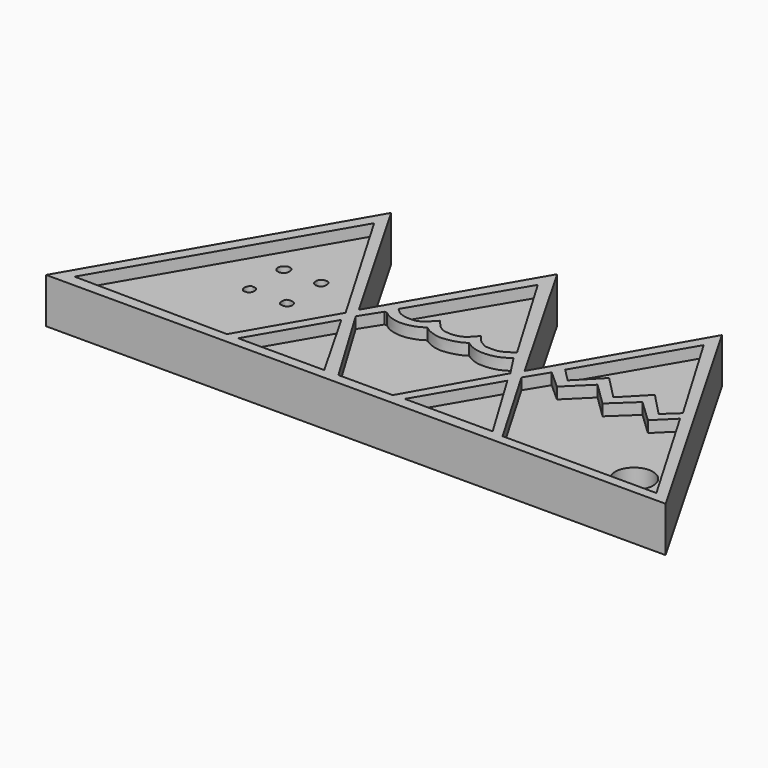
from build123d import *

# Parameters (mm, degrees)
F1_DEPTH = 3
F2_DEPTH = 4
F3_R     = 1.6718054665
F4_DEPTH = 25


with BuildPart() as f1:
    # F0 (on Top) → F1 (new body)
    with BuildSketch(Plane.XY):
        with BuildLine():
            add(Edge.make_bspline(
                [(-27.0166359842, 0), (-22.7459954719, 7.379512613), (-18.4753549596, 14.759025226), (-14.2047144473, 22.1385378391)],
                knots=[0, 0, 0, 0, 25.5785103382, 25.5785103382, 25.5785103382, 25.5785103382], degree=3))
            add(Edge.make_bspline(
                [(27.7878213674, 0), (9.5196689169, 0), (-8.7484835337, 0), (-27.0166359842, 0)],
                knots=[0, 0, 0, 0, 54.8044573516, 54.8044573516, 54.8044573516, 54.8044573516], degree=3))
            add(Edge.make_bspline(
                [(15.0614399463, 22.1385378391), (19.3035670867, 14.759025226), (23.545694227, 7.379512613), (27.7878213674, 0)],
                knots=[0, 0, 0, 0, 25.535771806, 25.535771806, 25.535771806, 25.535771806], degree=3))
            add(Edge.make_bspline(
                [(7.7691879123, 9.4376308843), (10.1999385903, 13.6712665359), (12.6306892683, 17.9049021875), (15.0614399463, 22.1385378391)],
                knots=[0, 0, 0, 0, 14.6454763391, 14.6454763391, 14.6454763391, 14.6454763391], degree=3))
            add(Edge.make_bspline(
                [(0.4854918807, 22.1385378391), (2.9133905579, 17.9049021875), (5.3412892351, 13.6712665359), (7.7691879123, 9.4376308843)],
                knots=[0, 0, 0, 0, 14.6412180284, 14.6412180284, 14.6412180284, 14.6412180284], degree=3))
            add(Edge.make_bspline(
                [(-6.8902163766, 9.4376308843), (-4.4316469575, 13.6712665359), (-1.9730775384, 17.9049021875), (0.4854918807, 22.1385378391)],
                knots=[0, 0, 0, 0, 14.6872090531, 14.6872090531, 14.6872090531, 14.6872090531], degree=3))
            add(Edge.make_bspline(
                [(-14.2047144473, 22.1385378391), (-11.7665484237, 17.9049021875), (-9.3283824002, 13.6712665359), (-6.8902163766, 9.4376308843)],
                knots=[0, 0, 0, 0, 14.656565747, 14.656565747, 14.656565747, 14.656565747], degree=3))
        make_face()
        with BuildLine():
            add(Edge.make_bspline(
                [(-6.8902163766, 7.4933706783), (-8.1716009105, 5.2916157098), (-9.4529854444, 3.0898607414), (-10.7343699783, 0.8881057729)],
                knots=[0, 0, 0, 0, 7.6424499595, 7.6424499595, 7.6424499595, 7.6424499595], degree=3))
            add(Edge.make_bspline(
                [(-3.1215331655, 0.8881057729), (-4.3777609025, 3.0898607414), (-5.6339886396, 5.2916157098), (-6.8902163766, 7.4933706783)],
                knots=[0.2174304247, 0.2174304247, 0.2174304247, 0.2174304247, 7.822198509, 7.822198509, 7.822198509, 7.822198509], degree=3))
            add(Edge.make_bspline(
                [(-10.7343699783, 0.8881057729), (-8.1967577074, 0.8881057729), (-5.6591454364, 0.8881057729), (-3.1215331655, 0.8881057729)],
                knots=[0, 0, 0, 0, 7.6128368128, 7.6128368128, 7.6128368128, 7.6128368128], degree=3))
        make_face(mode=Mode.SUBTRACT)
        with BuildLine():
            add(Edge.make_bspline(
                [(-14.1534451395, 20.2021654695), (-11.877084927, 16.3033613935), (-9.6007247145, 12.4045573175), (-7.324364502, 8.5057532415)],
                knots=[0, 0, 0, 0, 13.5440910128, 13.5440910128, 13.5440910128, 13.5440910128], degree=3))
            add(Edge.make_bspline(
                [(-7.324364502, 8.5057532415), (-8.7912762538, 5.9665374186), (-10.2581880055, 3.4273215958), (-11.7250997573, 0.8881057729)],
                knots=[0, 0, 0, 0, 8.7974441597, 8.7974441597, 8.7974441597, 8.7974441597], degree=3))
            add(Edge.make_bspline(
                [(-25.3200568259, 1.0284892051), (-20.7884044697, 0.9816947277), (-16.2567521135, 0.9349002503), (-11.7250997573, 0.8881057729)],
                knots=[0, 0, 0, 0, 13.5956818587, 13.5956818587, 13.5956818587, 13.5956818587], degree=3))
            add(Edge.make_bspline(
                [(-25.3200568259, 1.0284892051), (-21.5978529304, 7.4197146265), (-17.875649035, 13.810940048), (-14.1534451395, 20.2021654695)],
                knots=[0, 0, 0, 0, 22.1883545593, 22.1883545593, 22.1883545593, 22.1883545593], degree=3))
        make_face(mode=Mode.SUBTRACT)
        with BuildLine():
            add(Edge.make_bspline(
                [(-6.4517022111, 8.5330428556), (-4.931450317, 5.9938564276), (-3.4111984229, 3.4546699996), (-1.8909465289, 0.9154835716)],
                knots=[0, 0, 0, 0, 8.8784965978, 8.8784965978, 8.8784965978, 8.8784965978], degree=3))
            add(Edge.make_bspline(
                [(-6.4517022111, 8.5330428556), (-6.0765963669, 9.1245559355), (-5.7014905227, 9.7160690154), (-5.3263846785, 10.3075820953)],
                knots=[0, 0, 0, 0, 2.1012684413, 2.1012684413, 2.1012684413, 2.1012684413], degree=3))
            add(Edge.make_bspline(
                [(-5.3263846785, 10.3075820953), (-5.2542489332, 10.3075820953), (-5.182113188, 10.3075820953), (-5.1099774428, 10.3075820953)],
                knots=[0, 0, 0, 0, 0.2164072357, 0.2164072357, 0.2164072357, 0.2164072357], degree=3))
            add(Edge.make_bspline(
                [(-5.1099774428, 10.3075820953), (-4.9496532954, 10.1819225004), (-4.6092257121, 9.9151006094), (-3.8216528744, 9.7183805248), (-3.0359312813, 9.6696429625), (-2.1105616041, 9.949298696), (-1.7183953125, 10.1952396316), (-1.5392591013, 10.3075820953)],
                knots=[0, 0, 0, 0, 0.18110854, 0.3845605518, 0.5897184474, 0.8125889847, 1, 1, 1, 1], degree=3))
            add(Edge.make_bspline(
                [(-1.5392591013, 10.3075820953), (-1.3849584087, 10.1949424603), (-1.0453842045, 9.9470530063), (-0.160184237, 9.6822064615), (0.3988256138, 9.7061631275), (1.4604727263, 9.8889610674), (1.9369888648, 10.1735941157), (2.1613037679, 10.3075820953)],
                knots=[0, 0, 0, 0, 0.1773237248, 0.390241688, 0.5634387887, 0.7944934539, 1, 1, 1, 1], degree=3))
            add(Edge.make_bspline(
                [(2.1613037679, 10.3075820953), (2.3116370062, 10.2044057224), (2.6288923425, 9.9866677475), (3.3073928595, 9.7480906921), (3.9293685458, 9.7171948959), (4.8258767915, 9.8075913359), (5.5481639634, 10.1517143332), (5.8460675968, 10.3616419173), (5.97854238, 10.4549946263)],
                knots=[0, 0, 0, 0, 0.1523056938, 0.3214179023, 0.4820915145, 0.6738404511, 0.8549600921, 1, 1, 1, 1], degree=3))
            add(Edge.make_bspline(
                [(5.97854238, 10.4549946263), (6.3917043929, 9.8173987741), (6.8048664058, 9.1798029219), (7.2180284187, 8.5422070697)],
                knots=[0, 0, 0, 0, 2.2792722253, 2.2792722253, 2.2792722253, 2.2792722253], degree=3))
            add(Edge.make_bspline(
                [(7.2180284187, 8.5422070697), (5.7831165226, 5.9999659037), (4.3482046264, 3.4577247376), (2.9132927302, 0.9154835716)],
                knots=[0, 0, 0, 0, 8.7577200609, 8.7577200609, 8.7577200609, 8.7577200609], degree=3))
            add(Edge.make_bspline(
                [(2.9132927302, 0.9154835716), (1.3118796439, 0.9154835716), (-0.2895334425, 0.9154835716), (-1.8909465289, 0.9154835716)],
                knots=[0, 0, 0, 0, 4.8042392591, 4.8042392591, 4.8042392591, 4.8042392591], degree=3))
        make_face(mode=Mode.SUBTRACT)
        with BuildLine():
            add(Edge.make_bspline(
                [(7.7528352849, 7.5536821969), (6.4760330133, 5.3679696672), (5.1992307417, 3.1822571376), (3.9224284701, 0.9965446079)],
                knots=[0, 0, 0, 0, 7.5939495473, 7.5939495473, 7.5939495473, 7.5939495473], degree=3))
            add(Edge.make_bspline(
                [(11.6914464161, 0.9965446079), (10.378576039, 3.1822571376), (9.065705662, 5.3679696672), (7.7528352849, 7.5536821969)],
                knots=[0, 0, 0, 0, 7.6490987053, 7.6490987053, 7.6490987053, 7.6490987053], degree=3))
            add(Edge.make_bspline(
                [(3.9224284701, 0.9965446079), (6.5121011188, 0.9965446079), (9.1017737674, 0.9965446079), (11.6914464161, 0.9965446079)],
                knots=[0, 0, 0, 0, 7.769017946, 7.769017946, 7.769017946, 7.769017946], degree=3))
        make_face(mode=Mode.SUBTRACT)
        with BuildLine():
            add(Edge.make_bspline(
                [(9.3672713265, 10.4356342927), (8.9790557201, 9.8047843203), (8.5908401137, 9.1739343479), (8.2026245072, 8.5430843756)],
                knots=[0, 0, 0, 0, 2.2221942764, 2.2221942764, 2.2221942764, 2.2221942764], degree=3))
            add(Edge.make_bspline(
                [(10.9761599451, 8.9945429936), (10.4398637389, 9.47490676), (9.9035675327, 9.9552705263), (9.3672713265, 10.4356342927)],
                knots=[0, 0, 0, 0, 2.1599228503, 2.1599228503, 2.1599228503, 2.1599228503], degree=3))
            add(Edge.make_bspline(
                [(12.9869952798, 10.9763387591), (12.3167168349, 10.3157401706), (11.64643839, 9.6551415821), (10.9761599451, 8.9945429936)],
                knots=[0, 0, 0, 0, 2.8232911998, 2.8232911998, 2.8232911998, 2.8232911998], degree=3))
            add(Edge.make_bspline(
                [(15.0160277262, 8.9945429936), (14.3396835774, 9.6551415821), (13.6633394286, 10.3157401706), (12.9869952798, 10.9763387591)],
                knots=[0, 0, 0, 0, 2.8362805088, 2.8362805088, 2.8362805088, 2.8362805088], degree=3))
            add(Edge.make_bspline(
                [(17.032912001, 10.8881061897), (16.3606172428, 10.2569184576), (15.6883224845, 9.6257307256), (15.0160277262, 8.9945429936)],
                knots=[0, 0, 0, 0, 2.7664785839, 2.7664785839, 2.7664785839, 2.7664785839], degree=3))
            add(Edge.make_bspline(
                [(19.0255492926, 8.9945429936), (18.361336862, 9.6257307256), (17.6971244315, 10.2569184576), (17.032912001, 10.8881061897)],
                knots=[0, 0, 0, 0, 2.7488515699, 2.7488515699, 2.7488515699, 2.7488515699], degree=3))
            add(Edge.make_bspline(
                [(20.6134654582, 10.5685461313), (20.0841600696, 10.0438784187), (19.5548546811, 9.5192107062), (19.0255492926, 8.9945429936)],
                knots=[0, 0, 0, 0, 2.2358362253, 2.2358362253, 2.2358362253, 2.2358362253], degree=3))
            add(Edge.make_bspline(
                [(26.2882523239, 0.8584216121), (24.396656702, 4.0951297851), (22.5050610801, 7.3318379582), (20.6134654582, 10.5685461313)],
                knots=[0, 0, 0, 0, 11.2467650526, 11.2467650526, 11.2467650526, 11.2467650526], degree=3))
            add(Edge.make_bspline(
                [(12.6804020256, 0.8584216121), (17.216352125, 0.8584216121), (21.7523022244, 0.8584216121), (26.2882523239, 0.8584216121)],
                knots=[0, 0, 0, 0, 13.6078502983, 13.6078502983, 13.6078502983, 13.6078502983], degree=3))
            add(Edge.make_bspline(
                [(8.2026245072, 8.5430843756), (9.6952170134, 5.9815301211), (11.1878095195, 3.4199758666), (12.6804020256, 0.8584216121)],
                knots=[0, 0, 0, 0, 8.8940729305, 8.8940729305, 8.8940729305, 8.8940729305], degree=3))
        make_face(mode=Mode.SUBTRACT)
        with BuildLine():
            add(Edge.make_bspline(
                [(0.4351635871, 20.0606193393), (-1.3178719867, 17.1186734612), (-3.0709075606, 14.176727583), (-4.8239431344, 11.2347817048)],
                knots=[0, 0, 0, 0, 10.2739288229, 10.2739288229, 10.2739288229, 10.2739288229], degree=3))
            add(Edge.make_bspline(
                [(0.4351635871, 20.0606193393), (2.1743785862, 17.1186734612), (3.9135935852, 14.176727583), (5.6528085843, 11.2347817048)],
                knots=[0, 0, 0, 0, 10.2527669079, 10.2527669079, 10.2527669079, 10.2527669079], degree=3))
            add(Edge.make_bspline(
                [(2.1495183464, 11.6464523599), (2.2509623436, 11.5044818194), (2.4468562003, 11.2303290113), (2.7659519138, 10.9123425614), (3.1040862412, 10.7498585853), (3.3442695732, 10.5818540483), (3.6951138147, 10.6069182555), (4.2844186804, 10.5429416294), (4.8222213659, 10.712998681), (5.3452936057, 11.0666132578), (5.5609650638, 11.1845559166), (5.6528085843, 11.2347817048)],
                knots=[0, 0, 0, 0, 0.1198046878, 0.2313493454, 0.332804345, 0.4200037318, 0.5166877829, 0.6441722045, 0.770650518, 0.9023317038, 1, 1, 1, 1], degree=3))
            add(Edge.make_bspline(
                [(-1.4937368687, 11.6464523599), (-1.2955516385, 11.4067172885), (-0.9399786522, 10.9765978737), (-0.455391628, 10.6509638812), (0.0044988166, 10.5709580444), (0.5658319663, 10.5504462466), (1.2310150645, 10.7022597986), (1.7307889645, 11.1398648749), (2.0097078439, 11.4773067161), (2.1495183464, 11.6464523599)],
                knots=[0, 0, 0, 0, 0.1698416943, 0.3047205807, 0.4254575146, 0.5604280408, 0.7078327039, 0.8535486139, 1, 1, 1, 1], degree=3))
            add(Edge.make_bspline(
                [(-4.8239431344, 11.2347817048), (-4.7113299166, 11.1232943446), (-4.5017645933, 10.9158241635), (-4.2287552317, 10.7346725899), (-3.727079831, 10.568985522), (-3.3612944868, 10.5862218652), (-2.8006765528, 10.5258546667), (-2.1365564626, 10.9371017003), (-1.7172625779, 11.3997920049), (-1.4937368687, 11.6464523599)],
                knots=[0, 0, 0, 0, 0.1302655037, 0.242414993, 0.3804513589, 0.4992578986, 0.6400379596, 0.8081041168, 1, 1, 1, 1], degree=3))
        make_face(mode=Mode.SUBTRACT)
        with BuildLine():
            add(Edge.make_bspline(
                [(15.0142246857, 20.1831534505), (13.2890865207, 17.2330507388), (11.5639483556, 14.2829480271), (9.8388101906, 11.3328453153)],
                knots=[0, 0, 0, 0, 10.2524567438, 10.2524567438, 10.2524567438, 10.2524567438], degree=3))
            add(Edge.make_bspline(
                [(20.2538874, 11.3328453153), (18.5073331619, 14.2829480271), (16.7607789238, 17.2330507388), (15.0142246857, 20.1831534505)],
                knots=[0, 0, 0, 0, 10.2850386216, 10.2850386216, 10.2850386216, 10.2850386216], degree=3))
            add(Edge.make_bspline(
                [(19.0255492926, 10.1863965392), (19.4349953284, 10.5685461313), (19.8444413642, 10.9506957233), (20.2538874, 11.3328453153)],
                knots=[0, 0, 0, 0, 1.6802259677, 1.6802259677, 1.6802259677, 1.6802259677], degree=3))
            add(Edge.make_bspline(
                [(17.032912001, 12.2609231621), (17.6971244315, 11.5694142878), (18.361336862, 10.8779054135), (19.0255492926, 10.1863965392)],
                knots=[0, 0, 0, 0, 2.8765020571, 2.8765020571, 2.8765020571, 2.8765020571], degree=3))
            add(Edge.make_bspline(
                [(15.0160277262, 10.1863965392), (15.6883224845, 10.8779054135), (16.3606172428, 11.5694142878), (17.032912001, 12.2609231621)],
                knots=[0, 0, 0, 0, 2.8933514973, 2.8933514973, 2.8933514973, 2.8933514973], degree=3))
            add(Edge.make_bspline(
                [(12.9869952798, 12.2609231621), (13.6633394286, 11.5694142878), (14.3396835774, 10.8779054135), (15.0160277262, 10.1863965392)],
                knots=[0, 0, 0, 0, 2.9018327619, 2.9018327619, 2.9018327619, 2.9018327619], degree=3))
            add(Edge.make_bspline(
                [(10.9761599451, 10.1863965392), (11.64643839, 10.8779054135), (12.3167168349, 11.5694142878), (12.9869952798, 12.2609231621)],
                knots=[0, 0, 0, 0, 2.889138185, 2.889138185, 2.889138185, 2.889138185], degree=3))
            add(Edge.make_bspline(
                [(9.8388101906, 11.3328453153), (10.2179267754, 10.9506957233), (10.5970433603, 10.5685461313), (10.9761599451, 10.1863965392)],
                knots=[0, 0, 0, 0, 1.6149022449, 1.6149022449, 1.6149022449, 1.6149022449], degree=3))
        make_face(mode=Mode.SUBTRACT)
        with BuildLine():
            add(Edge.make_bspline(
                [(-7.324364502, 8.5057532415), (-8.7912762538, 5.9665374186), (-10.2581880055, 3.4273215958), (-11.7250997573, 0.8881057729)],
                knots=[0, 0, 0, 0, 8.7974441597, 8.7974441597, 8.7974441597, 8.7974441597], degree=3))
            add(Edge.make_bspline(
                [(-14.1534451395, 20.2021654695), (-11.877084927, 16.3033613935), (-9.6007247145, 12.4045573175), (-7.324364502, 8.5057532415)],
                knots=[0, 0, 0, 0, 13.5440910128, 13.5440910128, 13.5440910128, 13.5440910128], degree=3))
            add(Edge.make_bspline(
                [(-25.3200568259, 1.0284892051), (-21.5978529304, 7.4197146265), (-17.875649035, 13.810940048), (-14.1534451395, 20.2021654695)],
                knots=[0, 0, 0, 0, 22.1883545593, 22.1883545593, 22.1883545593, 22.1883545593], degree=3))
            add(Edge.make_bspline(
                [(-25.3200568259, 1.0284892051), (-20.7884044697, 0.9816947277), (-16.2567521135, 0.9349002503), (-11.7250997573, 0.8881057729)],
                knots=[0, 0, 0, 0, 13.5956818587, 13.5956818587, 13.5956818587, 13.5956818587], degree=3))
        make_face()
        with BuildLine():
            add(Edge.make_bspline(
                [(-15.9350205213, 9.0574743226), (-16.002546836, 9.0641577326), (-16.1029566258, 9.0686357925), (-16.2906122418, 8.8660017788), (-16.3764428175, 8.5658730013), (-16.2073296897, 8.1535837902), (-15.9449663874, 8.1269075183), (-15.6611170078, 8.1299910379), (-15.4890464402, 8.3822159473), (-15.4547919102, 8.6795485345), (-15.5494307015, 9.0090431794), (-15.8354347184, 9.0476178281), (-15.9350205213, 9.0574743226)],
                knots=[0, 0, 0, 0, 0.0758419945, 0.1690005289, 0.2747338931, 0.3932102788, 0.4856245013, 0.5824261429, 0.6809632375, 0.7845067208, 0.8881504796, 1, 1, 1, 1], degree=3))
        make_face(mode=Mode.SUBTRACT)
        with BuildLine():
            add(Edge.make_bspline(
                [(-12.6373749226, 9.0498235077), (-12.7418662768, 9.0487150817), (-12.9721803752, 9.0382400882), (-13.0727270325, 8.6095655544), (-12.9596937657, 8.2019860683), (-12.6785824203, 8.1126930575), (-12.226193778, 8.123555697), (-12.0520314143, 8.5764929763), (-12.1429293767, 8.8489787302), (-12.336258445, 9.045789274), (-12.5325428593, 9.0509355478), (-12.6373749226, 9.0498235077)],
                knots=[0, 0, 0, 0, 0.1047846609, 0.2252030483, 0.3467599439, 0.4471165766, 0.5704730123, 0.695902691, 0.7979830101, 0.8948736736, 1, 1, 1, 1], degree=3))
        make_face(mode=Mode.SUBTRACT)
        with BuildLine():
            add(Edge.make_bspline(
                [(-15.9535165876, 12.9017615691), (-16.0327183196, 12.886068742), (-16.1583342946, 12.8091096624), (-16.4397774379, 12.5518836325), (-16.3725320449, 12.0378722761), (-16.0096529342, 11.8422419462), (-15.5155040252, 11.8853485954), (-15.3204765145, 12.4632736627), (-15.5694809519, 12.9021564524), (-15.8557442259, 12.9211339329), (-15.9535165876, 12.9017615691)],
                knots=[0, 0, 0, 0, 0.0950313119, 0.2137995194, 0.3484296766, 0.4716307202, 0.6028163172, 0.7482222738, 0.8826864569, 1, 1, 1, 1], degree=3))
        make_face(mode=Mode.SUBTRACT)
        with BuildLine():
            add(Edge.make_bspline(
                [(-12.6415519044, 12.9017615691), (-12.7330015708, 12.8955511973), (-12.878253777, 12.8643851125), (-13.0749331653, 12.6344740317), (-13.0916396681, 12.3278210332), (-12.9697434892, 11.9893705802), (-12.6418032853, 11.8949128738), (-12.3312539937, 11.9474618159), (-12.1351327548, 12.2148004171), (-12.130756484, 12.5345978891), (-12.2470053751, 12.8983463643), (-12.5299858146, 12.9093380527), (-12.6415519044, 12.9017615691)],
                knots=[0, 0, 0, 0, 0.0881165292, 0.1825749211, 0.2821253182, 0.3862470007, 0.4873475649, 0.586326358, 0.6853743319, 0.7877697971, 0.8925002465, 1, 1, 1, 1], degree=3))
        make_face(mode=Mode.SUBTRACT)
        with BuildLine():
            add(Edge.make_bspline(
                [(-3.1215331655, 0.8881057729), (-4.3777609025, 3.0898607414), (-5.6339886396, 5.2916157098), (-6.8902163766, 7.4933706783)],
                knots=[0.2174304247, 0.2174304247, 0.2174304247, 0.2174304247, 7.822198509, 7.822198509, 7.822198509, 7.822198509], degree=3))
            add(Edge.make_bspline(
                [(-6.8902163766, 7.4933706783), (-8.1716009105, 5.2916157098), (-9.4529854444, 3.0898607414), (-10.7343699783, 0.8881057729)],
                knots=[0, 0, 0, 0, 7.6424499595, 7.6424499595, 7.6424499595, 7.6424499595], degree=3))
            add(Edge.make_bspline(
                [(-10.7343699783, 0.8881057729), (-8.1967577074, 0.8881057729), (-5.6591454364, 0.8881057729), (-3.1215331655, 0.8881057729)],
                knots=[0, 0, 0, 0, 7.6128368128, 7.6128368128, 7.6128368128, 7.6128368128], degree=3))
        make_face()
        with BuildLine():
            add(Edge.make_bspline(
                [(-6.4517022111, 8.5330428556), (-6.0765963669, 9.1245559355), (-5.7014905227, 9.7160690154), (-5.3263846785, 10.3075820953)],
                knots=[0, 0, 0, 0, 2.1012684413, 2.1012684413, 2.1012684413, 2.1012684413], degree=3))
            add(Edge.make_bspline(
                [(-6.4517022111, 8.5330428556), (-4.931450317, 5.9938564276), (-3.4111984229, 3.4546699996), (-1.8909465289, 0.9154835716)],
                knots=[0, 0, 0, 0, 8.8784965978, 8.8784965978, 8.8784965978, 8.8784965978], degree=3))
            add(Edge.make_bspline(
                [(2.9132927302, 0.9154835716), (1.3118796439, 0.9154835716), (-0.2895334425, 0.9154835716), (-1.8909465289, 0.9154835716)],
                knots=[0, 0, 0, 0, 4.8042392591, 4.8042392591, 4.8042392591, 4.8042392591], degree=3))
            add(Edge.make_bspline(
                [(7.2180284187, 8.5422070697), (5.7831165226, 5.9999659037), (4.3482046264, 3.4577247376), (2.9132927302, 0.9154835716)],
                knots=[0, 0, 0, 0, 8.7577200609, 8.7577200609, 8.7577200609, 8.7577200609], degree=3))
            add(Edge.make_bspline(
                [(5.97854238, 10.4549946263), (6.3917043929, 9.8173987741), (6.8048664058, 9.1798029219), (7.2180284187, 8.5422070697)],
                knots=[0, 0, 0, 0, 2.2792722253, 2.2792722253, 2.2792722253, 2.2792722253], degree=3))
            add(Edge.make_bspline(
                [(2.1613037679, 10.3075820953), (2.3116370062, 10.2044057224), (2.6288923425, 9.9866677475), (3.3073928595, 9.7480906921), (3.9293685458, 9.7171948959), (4.8258767915, 9.8075913359), (5.5481639634, 10.1517143332), (5.8460675968, 10.3616419173), (5.97854238, 10.4549946263)],
                knots=[0, 0, 0, 0, 0.1523056938, 0.3214179023, 0.4820915145, 0.6738404511, 0.8549600921, 1, 1, 1, 1], degree=3))
            add(Edge.make_bspline(
                [(-1.5392591013, 10.3075820953), (-1.3849584087, 10.1949424603), (-1.0453842045, 9.9470530063), (-0.160184237, 9.6822064615), (0.3988256138, 9.7061631275), (1.4604727263, 9.8889610674), (1.9369888648, 10.1735941157), (2.1613037679, 10.3075820953)],
                knots=[0, 0, 0, 0, 0.1773237248, 0.390241688, 0.5634387887, 0.7944934539, 1, 1, 1, 1], degree=3))
            add(Edge.make_bspline(
                [(-5.1099774428, 10.3075820953), (-4.9496532954, 10.1819225004), (-4.6092257121, 9.9151006094), (-3.8216528744, 9.7183805248), (-3.0359312813, 9.6696429625), (-2.1105616041, 9.949298696), (-1.7183953125, 10.1952396316), (-1.5392591013, 10.3075820953)],
                knots=[0, 0, 0, 0, 0.18110854, 0.3845605518, 0.5897184474, 0.8125889847, 1, 1, 1, 1], degree=3))
            add(Edge.make_bspline(
                [(-5.3263846785, 10.3075820953), (-5.2542489332, 10.3075820953), (-5.182113188, 10.3075820953), (-5.1099774428, 10.3075820953)],
                knots=[0, 0, 0, 0, 0.2164072357, 0.2164072357, 0.2164072357, 0.2164072357], degree=3))
        make_face()
        with BuildLine():
            add(Edge.make_bspline(
                [(0.4351635871, 20.0606193393), (2.1743785862, 17.1186734612), (3.9135935852, 14.176727583), (5.6528085843, 11.2347817048)],
                knots=[0, 0, 0, 0, 10.2527669079, 10.2527669079, 10.2527669079, 10.2527669079], degree=3))
            add(Edge.make_bspline(
                [(0.4351635871, 20.0606193393), (-1.3178719867, 17.1186734612), (-3.0709075606, 14.176727583), (-4.8239431344, 11.2347817048)],
                knots=[0, 0, 0, 0, 10.2739288229, 10.2739288229, 10.2739288229, 10.2739288229], degree=3))
            add(Edge.make_bspline(
                [(-4.8239431344, 11.2347817048), (-4.7113299166, 11.1232943446), (-4.5017645933, 10.9158241635), (-4.2287552317, 10.7346725899), (-3.727079831, 10.568985522), (-3.3612944868, 10.5862218652), (-2.8006765528, 10.5258546667), (-2.1365564626, 10.9371017003), (-1.7172625779, 11.3997920049), (-1.4937368687, 11.6464523599)],
                knots=[0, 0, 0, 0, 0.1302655037, 0.242414993, 0.3804513589, 0.4992578986, 0.6400379596, 0.8081041168, 1, 1, 1, 1], degree=3))
            add(Edge.make_bspline(
                [(-1.4937368687, 11.6464523599), (-1.2955516385, 11.4067172885), (-0.9399786522, 10.9765978737), (-0.455391628, 10.6509638812), (0.0044988166, 10.5709580444), (0.5658319663, 10.5504462466), (1.2310150645, 10.7022597986), (1.7307889645, 11.1398648749), (2.0097078439, 11.4773067161), (2.1495183464, 11.6464523599)],
                knots=[0, 0, 0, 0, 0.1698416943, 0.3047205807, 0.4254575146, 0.5604280408, 0.7078327039, 0.8535486139, 1, 1, 1, 1], degree=3))
            add(Edge.make_bspline(
                [(2.1495183464, 11.6464523599), (2.2509623436, 11.5044818194), (2.4468562003, 11.2303290113), (2.7659519138, 10.9123425614), (3.1040862412, 10.7498585853), (3.3442695732, 10.5818540483), (3.6951138147, 10.6069182555), (4.2844186804, 10.5429416294), (4.8222213659, 10.712998681), (5.3452936057, 11.0666132578), (5.5609650638, 11.1845559166), (5.6528085843, 11.2347817048)],
                knots=[0, 0, 0, 0, 0.1198046878, 0.2313493454, 0.332804345, 0.4200037318, 0.5166877829, 0.6441722045, 0.770650518, 0.9023317038, 1, 1, 1, 1], degree=3))
        make_face()
        with BuildLine():
            add(Edge.make_bspline(
                [(20.2538874, 11.3328453153), (18.5073331619, 14.2829480271), (16.7607789238, 17.2330507388), (15.0142246857, 20.1831534505)],
                knots=[0, 0, 0, 0, 10.2850386216, 10.2850386216, 10.2850386216, 10.2850386216], degree=3))
            add(Edge.make_bspline(
                [(15.0142246857, 20.1831534505), (13.2890865207, 17.2330507388), (11.5639483556, 14.2829480271), (9.8388101906, 11.3328453153)],
                knots=[0, 0, 0, 0, 10.2524567438, 10.2524567438, 10.2524567438, 10.2524567438], degree=3))
            add(Edge.make_bspline(
                [(9.8388101906, 11.3328453153), (10.2179267754, 10.9506957233), (10.5970433603, 10.5685461313), (10.9761599451, 10.1863965392)],
                knots=[0, 0, 0, 0, 1.6149022449, 1.6149022449, 1.6149022449, 1.6149022449], degree=3))
            add(Edge.make_bspline(
                [(10.9761599451, 10.1863965392), (11.64643839, 10.8779054135), (12.3167168349, 11.5694142878), (12.9869952798, 12.2609231621)],
                knots=[0, 0, 0, 0, 2.889138185, 2.889138185, 2.889138185, 2.889138185], degree=3))
            add(Edge.make_bspline(
                [(12.9869952798, 12.2609231621), (13.6633394286, 11.5694142878), (14.3396835774, 10.8779054135), (15.0160277262, 10.1863965392)],
                knots=[0, 0, 0, 0, 2.9018327619, 2.9018327619, 2.9018327619, 2.9018327619], degree=3))
            add(Edge.make_bspline(
                [(15.0160277262, 10.1863965392), (15.6883224845, 10.8779054135), (16.3606172428, 11.5694142878), (17.032912001, 12.2609231621)],
                knots=[0, 0, 0, 0, 2.8933514973, 2.8933514973, 2.8933514973, 2.8933514973], degree=3))
            add(Edge.make_bspline(
                [(17.032912001, 12.2609231621), (17.6971244315, 11.5694142878), (18.361336862, 10.8779054135), (19.0255492926, 10.1863965392)],
                knots=[0, 0, 0, 0, 2.8765020571, 2.8765020571, 2.8765020571, 2.8765020571], degree=3))
            add(Edge.make_bspline(
                [(19.0255492926, 10.1863965392), (19.4349953284, 10.5685461313), (19.8444413642, 10.9506957233), (20.2538874, 11.3328453153)],
                knots=[0, 0, 0, 0, 1.6802259677, 1.6802259677, 1.6802259677, 1.6802259677], degree=3))
        make_face()
        with BuildLine():
            add(Edge.make_bspline(
                [(10.9761599451, 8.9945429936), (10.4398637389, 9.47490676), (9.9035675327, 9.9552705263), (9.3672713265, 10.4356342927)],
                knots=[0, 0, 0, 0, 2.1599228503, 2.1599228503, 2.1599228503, 2.1599228503], degree=3))
            add(Edge.make_bspline(
                [(9.3672713265, 10.4356342927), (8.9790557201, 9.8047843203), (8.5908401137, 9.1739343479), (8.2026245072, 8.5430843756)],
                knots=[0, 0, 0, 0, 2.2221942764, 2.2221942764, 2.2221942764, 2.2221942764], degree=3))
            add(Edge.make_bspline(
                [(8.2026245072, 8.5430843756), (9.6952170134, 5.9815301211), (11.1878095195, 3.4199758666), (12.6804020256, 0.8584216121)],
                knots=[0, 0, 0, 0, 8.8940729305, 8.8940729305, 8.8940729305, 8.8940729305], degree=3))
            add(Edge.make_bspline(
                [(12.6804020256, 0.8584216121), (17.216352125, 0.8584216121), (21.7523022244, 0.8584216121), (26.2882523239, 0.8584216121)],
                knots=[0, 0, 0, 0, 13.6078502983, 13.6078502983, 13.6078502983, 13.6078502983], degree=3))
            add(Edge.make_bspline(
                [(26.2882523239, 0.8584216121), (24.396656702, 4.0951297851), (22.5050610801, 7.3318379582), (20.6134654582, 10.5685461313)],
                knots=[0, 0, 0, 0, 11.2467650526, 11.2467650526, 11.2467650526, 11.2467650526], degree=3))
            add(Edge.make_bspline(
                [(20.6134654582, 10.5685461313), (20.0841600696, 10.0438784187), (19.5548546811, 9.5192107062), (19.0255492926, 8.9945429936)],
                knots=[0, 0, 0, 0, 2.2358362253, 2.2358362253, 2.2358362253, 2.2358362253], degree=3))
            add(Edge.make_bspline(
                [(19.0255492926, 8.9945429936), (18.361336862, 9.6257307256), (17.6971244315, 10.2569184576), (17.032912001, 10.8881061897)],
                knots=[0, 0, 0, 0, 2.7488515699, 2.7488515699, 2.7488515699, 2.7488515699], degree=3))
            add(Edge.make_bspline(
                [(17.032912001, 10.8881061897), (16.3606172428, 10.2569184576), (15.6883224845, 9.6257307256), (15.0160277262, 8.9945429936)],
                knots=[0, 0, 0, 0, 2.7664785839, 2.7664785839, 2.7664785839, 2.7664785839], degree=3))
            add(Edge.make_bspline(
                [(15.0160277262, 8.9945429936), (14.3396835774, 9.6551415821), (13.6633394286, 10.3157401706), (12.9869952798, 10.9763387591)],
                knots=[0, 0, 0, 0, 2.8362805088, 2.8362805088, 2.8362805088, 2.8362805088], degree=3))
            add(Edge.make_bspline(
                [(12.9869952798, 10.9763387591), (12.3167168349, 10.3157401706), (11.64643839, 9.6551415821), (10.9761599451, 8.9945429936)],
                knots=[0, 0, 0, 0, 2.8232911998, 2.8232911998, 2.8232911998, 2.8232911998], degree=3))
        make_face()
        with BuildLine():
            add(Edge.make_bspline(
                [(11.6914464161, 0.9965446079), (10.378576039, 3.1822571376), (9.065705662, 5.3679696672), (7.7528352849, 7.5536821969)],
                knots=[0, 0, 0, 0, 7.6490987053, 7.6490987053, 7.6490987053, 7.6490987053], degree=3))
            add(Edge.make_bspline(
                [(7.7528352849, 7.5536821969), (6.4760330133, 5.3679696672), (5.1992307417, 3.1822571376), (3.9224284701, 0.9965446079)],
                knots=[0, 0, 0, 0, 7.5939495473, 7.5939495473, 7.5939495473, 7.5939495473], degree=3))
            add(Edge.make_bspline(
                [(3.9224284701, 0.9965446079), (6.5121011188, 0.9965446079), (9.1017737674, 0.9965446079), (11.6914464161, 0.9965446079)],
                knots=[0, 0, 0, 0, 7.769017946, 7.769017946, 7.769017946, 7.769017946], degree=3))
        make_face()
    extrude(amount=F1_DEPTH)

    # F0 (on Top) → F2 (join)
    with BuildSketch(Plane.XY):
        with BuildLine():
            add(Edge.make_bspline(
                [(-27.0166359842, 0), (-22.7459954719, 7.379512613), (-18.4753549596, 14.759025226), (-14.2047144473, 22.1385378391)],
                knots=[0, 0, 0, 0, 25.5785103382, 25.5785103382, 25.5785103382, 25.5785103382], degree=3))
            add(Edge.make_bspline(
                [(27.7878213674, 0), (9.5196689169, 0), (-8.7484835337, 0), (-27.0166359842, 0)],
                knots=[0, 0, 0, 0, 54.8044573516, 54.8044573516, 54.8044573516, 54.8044573516], degree=3))
            add(Edge.make_bspline(
                [(15.0614399463, 22.1385378391), (19.3035670867, 14.759025226), (23.545694227, 7.379512613), (27.7878213674, 0)],
                knots=[0, 0, 0, 0, 25.535771806, 25.535771806, 25.535771806, 25.535771806], degree=3))
            add(Edge.make_bspline(
                [(7.7691879123, 9.4376308843), (10.1999385903, 13.6712665359), (12.6306892683, 17.9049021875), (15.0614399463, 22.1385378391)],
                knots=[0, 0, 0, 0, 14.6454763391, 14.6454763391, 14.6454763391, 14.6454763391], degree=3))
            add(Edge.make_bspline(
                [(0.4854918807, 22.1385378391), (2.9133905579, 17.9049021875), (5.3412892351, 13.6712665359), (7.7691879123, 9.4376308843)],
                knots=[0, 0, 0, 0, 14.6412180284, 14.6412180284, 14.6412180284, 14.6412180284], degree=3))
            add(Edge.make_bspline(
                [(-6.8902163766, 9.4376308843), (-4.4316469575, 13.6712665359), (-1.9730775384, 17.9049021875), (0.4854918807, 22.1385378391)],
                knots=[0, 0, 0, 0, 14.6872090531, 14.6872090531, 14.6872090531, 14.6872090531], degree=3))
            add(Edge.make_bspline(
                [(-14.2047144473, 22.1385378391), (-11.7665484237, 17.9049021875), (-9.3283824002, 13.6712665359), (-6.8902163766, 9.4376308843)],
                knots=[0, 0, 0, 0, 14.656565747, 14.656565747, 14.656565747, 14.656565747], degree=3))
        make_face()
        with BuildLine():
            add(Edge.make_bspline(
                [(-6.8902163766, 7.4933706783), (-8.1716009105, 5.2916157098), (-9.4529854444, 3.0898607414), (-10.7343699783, 0.8881057729)],
                knots=[0, 0, 0, 0, 7.6424499595, 7.6424499595, 7.6424499595, 7.6424499595], degree=3))
            add(Edge.make_bspline(
                [(-3.1215331655, 0.8881057729), (-4.3777609025, 3.0898607414), (-5.6339886396, 5.2916157098), (-6.8902163766, 7.4933706783)],
                knots=[0.2174304247, 0.2174304247, 0.2174304247, 0.2174304247, 7.822198509, 7.822198509, 7.822198509, 7.822198509], degree=3))
            add(Edge.make_bspline(
                [(-10.7343699783, 0.8881057729), (-8.1967577074, 0.8881057729), (-5.6591454364, 0.8881057729), (-3.1215331655, 0.8881057729)],
                knots=[0, 0, 0, 0, 7.6128368128, 7.6128368128, 7.6128368128, 7.6128368128], degree=3))
        make_face(mode=Mode.SUBTRACT)
        with BuildLine():
            add(Edge.make_bspline(
                [(-14.1534451395, 20.2021654695), (-11.877084927, 16.3033613935), (-9.6007247145, 12.4045573175), (-7.324364502, 8.5057532415)],
                knots=[0, 0, 0, 0, 13.5440910128, 13.5440910128, 13.5440910128, 13.5440910128], degree=3))
            add(Edge.make_bspline(
                [(-7.324364502, 8.5057532415), (-8.7912762538, 5.9665374186), (-10.2581880055, 3.4273215958), (-11.7250997573, 0.8881057729)],
                knots=[0, 0, 0, 0, 8.7974441597, 8.7974441597, 8.7974441597, 8.7974441597], degree=3))
            add(Edge.make_bspline(
                [(-25.3200568259, 1.0284892051), (-20.7884044697, 0.9816947277), (-16.2567521135, 0.9349002503), (-11.7250997573, 0.8881057729)],
                knots=[0, 0, 0, 0, 13.5956818587, 13.5956818587, 13.5956818587, 13.5956818587], degree=3))
            add(Edge.make_bspline(
                [(-25.3200568259, 1.0284892051), (-21.5978529304, 7.4197146265), (-17.875649035, 13.810940048), (-14.1534451395, 20.2021654695)],
                knots=[0, 0, 0, 0, 22.1883545593, 22.1883545593, 22.1883545593, 22.1883545593], degree=3))
        make_face(mode=Mode.SUBTRACT)
        with BuildLine():
            add(Edge.make_bspline(
                [(-6.4517022111, 8.5330428556), (-4.931450317, 5.9938564276), (-3.4111984229, 3.4546699996), (-1.8909465289, 0.9154835716)],
                knots=[0, 0, 0, 0, 8.8784965978, 8.8784965978, 8.8784965978, 8.8784965978], degree=3))
            add(Edge.make_bspline(
                [(-6.4517022111, 8.5330428556), (-6.0765963669, 9.1245559355), (-5.7014905227, 9.7160690154), (-5.3263846785, 10.3075820953)],
                knots=[0, 0, 0, 0, 2.1012684413, 2.1012684413, 2.1012684413, 2.1012684413], degree=3))
            add(Edge.make_bspline(
                [(-5.3263846785, 10.3075820953), (-5.2542489332, 10.3075820953), (-5.182113188, 10.3075820953), (-5.1099774428, 10.3075820953)],
                knots=[0, 0, 0, 0, 0.2164072357, 0.2164072357, 0.2164072357, 0.2164072357], degree=3))
            add(Edge.make_bspline(
                [(-5.1099774428, 10.3075820953), (-4.9496532954, 10.1819225004), (-4.6092257121, 9.9151006094), (-3.8216528744, 9.7183805248), (-3.0359312813, 9.6696429625), (-2.1105616041, 9.949298696), (-1.7183953125, 10.1952396316), (-1.5392591013, 10.3075820953)],
                knots=[0, 0, 0, 0, 0.18110854, 0.3845605518, 0.5897184474, 0.8125889847, 1, 1, 1, 1], degree=3))
            add(Edge.make_bspline(
                [(-1.5392591013, 10.3075820953), (-1.3849584087, 10.1949424603), (-1.0453842045, 9.9470530063), (-0.160184237, 9.6822064615), (0.3988256138, 9.7061631275), (1.4604727263, 9.8889610674), (1.9369888648, 10.1735941157), (2.1613037679, 10.3075820953)],
                knots=[0, 0, 0, 0, 0.1773237248, 0.390241688, 0.5634387887, 0.7944934539, 1, 1, 1, 1], degree=3))
            add(Edge.make_bspline(
                [(2.1613037679, 10.3075820953), (2.3116370062, 10.2044057224), (2.6288923425, 9.9866677475), (3.3073928595, 9.7480906921), (3.9293685458, 9.7171948959), (4.8258767915, 9.8075913359), (5.5481639634, 10.1517143332), (5.8460675968, 10.3616419173), (5.97854238, 10.4549946263)],
                knots=[0, 0, 0, 0, 0.1523056938, 0.3214179023, 0.4820915145, 0.6738404511, 0.8549600921, 1, 1, 1, 1], degree=3))
            add(Edge.make_bspline(
                [(5.97854238, 10.4549946263), (6.3917043929, 9.8173987741), (6.8048664058, 9.1798029219), (7.2180284187, 8.5422070697)],
                knots=[0, 0, 0, 0, 2.2792722253, 2.2792722253, 2.2792722253, 2.2792722253], degree=3))
            add(Edge.make_bspline(
                [(7.2180284187, 8.5422070697), (5.7831165226, 5.9999659037), (4.3482046264, 3.4577247376), (2.9132927302, 0.9154835716)],
                knots=[0, 0, 0, 0, 8.7577200609, 8.7577200609, 8.7577200609, 8.7577200609], degree=3))
            add(Edge.make_bspline(
                [(2.9132927302, 0.9154835716), (1.3118796439, 0.9154835716), (-0.2895334425, 0.9154835716), (-1.8909465289, 0.9154835716)],
                knots=[0, 0, 0, 0, 4.8042392591, 4.8042392591, 4.8042392591, 4.8042392591], degree=3))
        make_face(mode=Mode.SUBTRACT)
        with BuildLine():
            add(Edge.make_bspline(
                [(7.7528352849, 7.5536821969), (6.4760330133, 5.3679696672), (5.1992307417, 3.1822571376), (3.9224284701, 0.9965446079)],
                knots=[0, 0, 0, 0, 7.5939495473, 7.5939495473, 7.5939495473, 7.5939495473], degree=3))
            add(Edge.make_bspline(
                [(11.6914464161, 0.9965446079), (10.378576039, 3.1822571376), (9.065705662, 5.3679696672), (7.7528352849, 7.5536821969)],
                knots=[0, 0, 0, 0, 7.6490987053, 7.6490987053, 7.6490987053, 7.6490987053], degree=3))
            add(Edge.make_bspline(
                [(3.9224284701, 0.9965446079), (6.5121011188, 0.9965446079), (9.1017737674, 0.9965446079), (11.6914464161, 0.9965446079)],
                knots=[0, 0, 0, 0, 7.769017946, 7.769017946, 7.769017946, 7.769017946], degree=3))
        make_face(mode=Mode.SUBTRACT)
        with BuildLine():
            add(Edge.make_bspline(
                [(9.3672713265, 10.4356342927), (8.9790557201, 9.8047843203), (8.5908401137, 9.1739343479), (8.2026245072, 8.5430843756)],
                knots=[0, 0, 0, 0, 2.2221942764, 2.2221942764, 2.2221942764, 2.2221942764], degree=3))
            add(Edge.make_bspline(
                [(10.9761599451, 8.9945429936), (10.4398637389, 9.47490676), (9.9035675327, 9.9552705263), (9.3672713265, 10.4356342927)],
                knots=[0, 0, 0, 0, 2.1599228503, 2.1599228503, 2.1599228503, 2.1599228503], degree=3))
            add(Edge.make_bspline(
                [(12.9869952798, 10.9763387591), (12.3167168349, 10.3157401706), (11.64643839, 9.6551415821), (10.9761599451, 8.9945429936)],
                knots=[0, 0, 0, 0, 2.8232911998, 2.8232911998, 2.8232911998, 2.8232911998], degree=3))
            add(Edge.make_bspline(
                [(15.0160277262, 8.9945429936), (14.3396835774, 9.6551415821), (13.6633394286, 10.3157401706), (12.9869952798, 10.9763387591)],
                knots=[0, 0, 0, 0, 2.8362805088, 2.8362805088, 2.8362805088, 2.8362805088], degree=3))
            add(Edge.make_bspline(
                [(17.032912001, 10.8881061897), (16.3606172428, 10.2569184576), (15.6883224845, 9.6257307256), (15.0160277262, 8.9945429936)],
                knots=[0, 0, 0, 0, 2.7664785839, 2.7664785839, 2.7664785839, 2.7664785839], degree=3))
            add(Edge.make_bspline(
                [(19.0255492926, 8.9945429936), (18.361336862, 9.6257307256), (17.6971244315, 10.2569184576), (17.032912001, 10.8881061897)],
                knots=[0, 0, 0, 0, 2.7488515699, 2.7488515699, 2.7488515699, 2.7488515699], degree=3))
            add(Edge.make_bspline(
                [(20.6134654582, 10.5685461313), (20.0841600696, 10.0438784187), (19.5548546811, 9.5192107062), (19.0255492926, 8.9945429936)],
                knots=[0, 0, 0, 0, 2.2358362253, 2.2358362253, 2.2358362253, 2.2358362253], degree=3))
            add(Edge.make_bspline(
                [(26.2882523239, 0.8584216121), (24.396656702, 4.0951297851), (22.5050610801, 7.3318379582), (20.6134654582, 10.5685461313)],
                knots=[0, 0, 0, 0, 11.2467650526, 11.2467650526, 11.2467650526, 11.2467650526], degree=3))
            add(Edge.make_bspline(
                [(12.6804020256, 0.8584216121), (17.216352125, 0.8584216121), (21.7523022244, 0.8584216121), (26.2882523239, 0.8584216121)],
                knots=[0, 0, 0, 0, 13.6078502983, 13.6078502983, 13.6078502983, 13.6078502983], degree=3))
            add(Edge.make_bspline(
                [(8.2026245072, 8.5430843756), (9.6952170134, 5.9815301211), (11.1878095195, 3.4199758666), (12.6804020256, 0.8584216121)],
                knots=[0, 0, 0, 0, 8.8940729305, 8.8940729305, 8.8940729305, 8.8940729305], degree=3))
        make_face(mode=Mode.SUBTRACT)
        with BuildLine():
            add(Edge.make_bspline(
                [(0.4351635871, 20.0606193393), (-1.3178719867, 17.1186734612), (-3.0709075606, 14.176727583), (-4.8239431344, 11.2347817048)],
                knots=[0, 0, 0, 0, 10.2739288229, 10.2739288229, 10.2739288229, 10.2739288229], degree=3))
            add(Edge.make_bspline(
                [(0.4351635871, 20.0606193393), (2.1743785862, 17.1186734612), (3.9135935852, 14.176727583), (5.6528085843, 11.2347817048)],
                knots=[0, 0, 0, 0, 10.2527669079, 10.2527669079, 10.2527669079, 10.2527669079], degree=3))
            add(Edge.make_bspline(
                [(2.1495183464, 11.6464523599), (2.2509623436, 11.5044818194), (2.4468562003, 11.2303290113), (2.7659519138, 10.9123425614), (3.1040862412, 10.7498585853), (3.3442695732, 10.5818540483), (3.6951138147, 10.6069182555), (4.2844186804, 10.5429416294), (4.8222213659, 10.712998681), (5.3452936057, 11.0666132578), (5.5609650638, 11.1845559166), (5.6528085843, 11.2347817048)],
                knots=[0, 0, 0, 0, 0.1198046878, 0.2313493454, 0.332804345, 0.4200037318, 0.5166877829, 0.6441722045, 0.770650518, 0.9023317038, 1, 1, 1, 1], degree=3))
            add(Edge.make_bspline(
                [(-1.4937368687, 11.6464523599), (-1.2955516385, 11.4067172885), (-0.9399786522, 10.9765978737), (-0.455391628, 10.6509638812), (0.0044988166, 10.5709580444), (0.5658319663, 10.5504462466), (1.2310150645, 10.7022597986), (1.7307889645, 11.1398648749), (2.0097078439, 11.4773067161), (2.1495183464, 11.6464523599)],
                knots=[0, 0, 0, 0, 0.1698416943, 0.3047205807, 0.4254575146, 0.5604280408, 0.7078327039, 0.8535486139, 1, 1, 1, 1], degree=3))
            add(Edge.make_bspline(
                [(-4.8239431344, 11.2347817048), (-4.7113299166, 11.1232943446), (-4.5017645933, 10.9158241635), (-4.2287552317, 10.7346725899), (-3.727079831, 10.568985522), (-3.3612944868, 10.5862218652), (-2.8006765528, 10.5258546667), (-2.1365564626, 10.9371017003), (-1.7172625779, 11.3997920049), (-1.4937368687, 11.6464523599)],
                knots=[0, 0, 0, 0, 0.1302655037, 0.242414993, 0.3804513589, 0.4992578986, 0.6400379596, 0.8081041168, 1, 1, 1, 1], degree=3))
        make_face(mode=Mode.SUBTRACT)
        with BuildLine():
            add(Edge.make_bspline(
                [(15.0142246857, 20.1831534505), (13.2890865207, 17.2330507388), (11.5639483556, 14.2829480271), (9.8388101906, 11.3328453153)],
                knots=[0, 0, 0, 0, 10.2524567438, 10.2524567438, 10.2524567438, 10.2524567438], degree=3))
            add(Edge.make_bspline(
                [(20.2538874, 11.3328453153), (18.5073331619, 14.2829480271), (16.7607789238, 17.2330507388), (15.0142246857, 20.1831534505)],
                knots=[0, 0, 0, 0, 10.2850386216, 10.2850386216, 10.2850386216, 10.2850386216], degree=3))
            add(Edge.make_bspline(
                [(19.0255492926, 10.1863965392), (19.4349953284, 10.5685461313), (19.8444413642, 10.9506957233), (20.2538874, 11.3328453153)],
                knots=[0, 0, 0, 0, 1.6802259677, 1.6802259677, 1.6802259677, 1.6802259677], degree=3))
            add(Edge.make_bspline(
                [(17.032912001, 12.2609231621), (17.6971244315, 11.5694142878), (18.361336862, 10.8779054135), (19.0255492926, 10.1863965392)],
                knots=[0, 0, 0, 0, 2.8765020571, 2.8765020571, 2.8765020571, 2.8765020571], degree=3))
            add(Edge.make_bspline(
                [(15.0160277262, 10.1863965392), (15.6883224845, 10.8779054135), (16.3606172428, 11.5694142878), (17.032912001, 12.2609231621)],
                knots=[0, 0, 0, 0, 2.8933514973, 2.8933514973, 2.8933514973, 2.8933514973], degree=3))
            add(Edge.make_bspline(
                [(12.9869952798, 12.2609231621), (13.6633394286, 11.5694142878), (14.3396835774, 10.8779054135), (15.0160277262, 10.1863965392)],
                knots=[0, 0, 0, 0, 2.9018327619, 2.9018327619, 2.9018327619, 2.9018327619], degree=3))
            add(Edge.make_bspline(
                [(10.9761599451, 10.1863965392), (11.64643839, 10.8779054135), (12.3167168349, 11.5694142878), (12.9869952798, 12.2609231621)],
                knots=[0, 0, 0, 0, 2.889138185, 2.889138185, 2.889138185, 2.889138185], degree=3))
            add(Edge.make_bspline(
                [(9.8388101906, 11.3328453153), (10.2179267754, 10.9506957233), (10.5970433603, 10.5685461313), (10.9761599451, 10.1863965392)],
                knots=[0, 0, 0, 0, 1.6149022449, 1.6149022449, 1.6149022449, 1.6149022449], degree=3))
        make_face(mode=Mode.SUBTRACT)
    extrude(amount=F2_DEPTH)

    # F3 (on face) → F4 (cut)
    with BuildSketch(Plane.XY.offset(3)):
        with Locations((22.5431397557, 3.0675732996)):
            Circle(F3_R)
    extrude(amount=-F4_DEPTH, mode=Mode.SUBTRACT)


solid = f1.part
